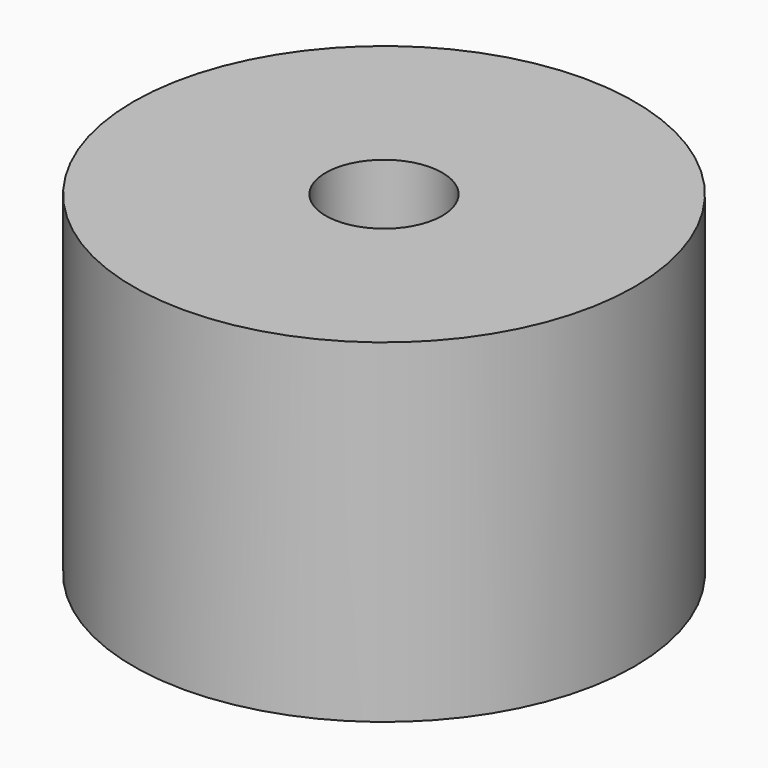
from build123d import *

# Parameters (mm, degrees)
F0_R     = 19.05
F1_DEPTH = 12.7
F2_R     = 4.431921
F3_DEPTH = 17.526


with BuildPart() as f1:
    # F0 (on Top) → F1 (new body, symmetric)
    with BuildSketch(Plane.XY):
        Circle(F0_R)
    extrude(amount=F1_DEPTH, both=True)

    # F2 (on Top) → F3 (cut, symmetric)
    with BuildSketch(Plane.XY):
        Circle(F2_R)
    extrude(amount=F3_DEPTH, both=True, mode=Mode.SUBTRACT)


solid = f1.part
